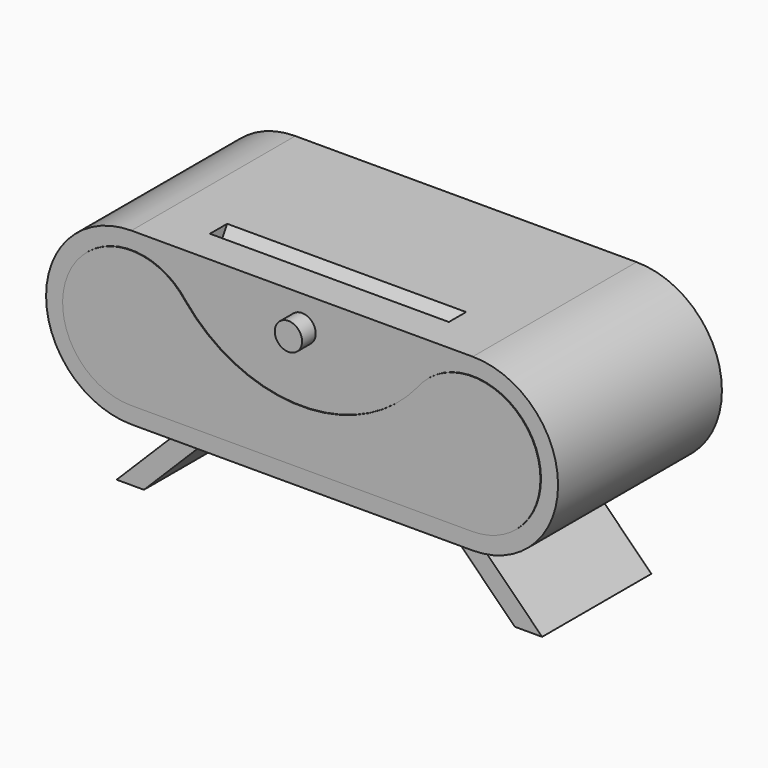
from build123d import *

# Parameters (mm, degrees)
F1_DEPTH  = 150
F3_DEPTH  = 100
F7_DEPTH  = 1
F8_R      = 20
F9_DEPTH  = 25
F11_DEPTH = 175


with BuildPart() as f1:
    # F0 (on Front) → F1 (new body, symmetric)
    with BuildSketch(Plane.XZ):
        with BuildLine():
            Line((-500, 0), (0, 0))
            ThreePointArc((0, 0), (125, 125), (0, 250))
            Line((0, 250), (-500, 250))
            ThreePointArc((-500, 250), (-625, 125), (-500, 0))
        make_face()
    extrude(amount=F1_DEPTH, both=True)

    # F2 (on Front) → F3 (join, symmetric)
    with BuildSketch(Plane.XZ):
        Polygon((61.636794, -111.636794), (-50, 0), (-90, 0), (21.636792, -111.636794), align=None)
    extrude(amount=F3_DEPTH, both=True)

    # F5: F1 across plane


with BuildPart() as f1_1:
    add(f1.part)
    add(f1.part.mirror(Plane.YZ.offset(-250)))

    # F6 (on face) → F7 (join)
    with BuildSketch(Plane.XZ.offset(150)):
        with BuildLine():
            ThreePointArc((-500, 25), (-429.289322, 54.289322), (-400, 125))
            ThreePointArc((-400, 125), (-405.13167, 156.622777), (-420, 185))
            ThreePointArc((-420, 185), (-589.442719, 169.72136), (-500, 25))
        make_face()
        with BuildLine():
            ThreePointArc((-420, 185), (-405.13167, 156.622777), (-400, 125))
            ThreePointArc((-400, 125), (-429.289322, 54.289322), (-500, 25))
            Line((-500, 25), (0, 25))
            ThreePointArc((0, 25), (-89.442719, 80.27864), (-80, 185))
            ThreePointArc((-80, 185), (-250, 105), (-420, 185))
        make_face()
        with BuildLine():
            ThreePointArc((100, 125), (31.622777, 219.86833), (-80, 185))
            ThreePointArc((-80, 185), (-89.442719, 80.27864), (0, 25))
            ThreePointArc((0, 25), (70.710678, 54.289322), (100, 125))
        make_face()
    extrude(amount=F7_DEPTH)

    # F8 (on face) → F9 (join)
    with BuildSketch(Plane.XZ.offset(150)):
        with Locations((-250, 205)):
            Circle(F8_R)
    extrude(amount=F9_DEPTH)

    # F10 (on offset) → F11 (cut, symmetric)
    with BuildSketch(Plane.YZ.offset(-250)):
        Polygon((-68, 250.78461), (-100, 250.78461), (-100, 230), (-80, 230), align=None)
    extrude(amount=F11_DEPTH, both=True, mode=Mode.SUBTRACT)


solid = f1_1.part
